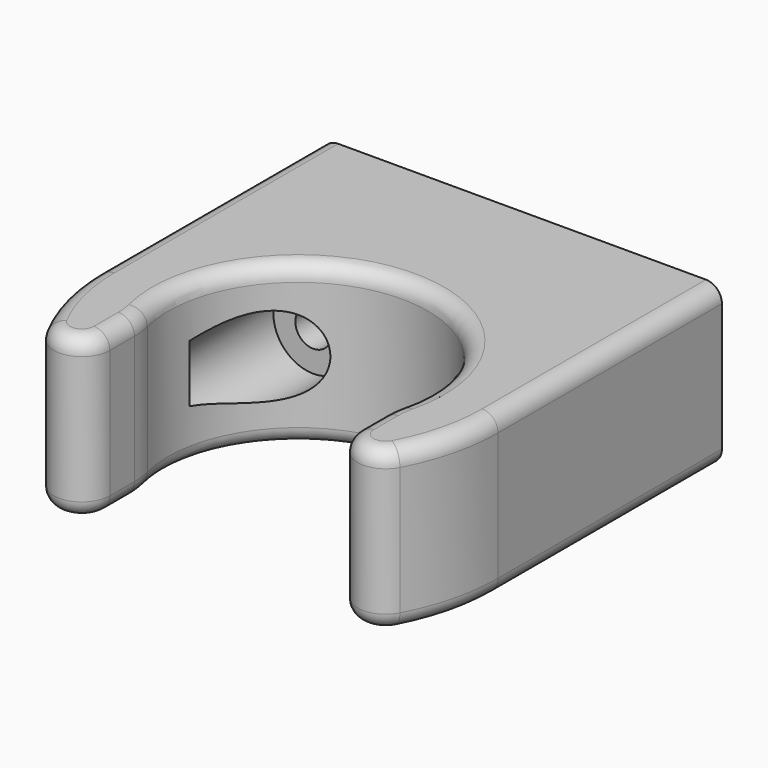
from build123d import *

# Parameters (mm, degrees)
F1_DEPTH = 20
F3_D     = 4.5
F3_DEPTH = 25
F3_TIP   = 1.3519363928
F6_R     = 2
F5_R     = 5
F7_DEPTH = 15
F8_DEPTH = 10


with BuildPart() as f1:
    # F0 (on Top) → F1 (new body)
    with BuildSketch(Plane.XY):
        with BuildLine():
            ThreePointArc((-15.7857142857, -3.8566467935), (0, 16.25), (15.7857142857, -3.8566467935))
            ThreePointArc((15.7857142857, -3.8566467935), (15.5716855121, -5.0347392879), (15.5, -6.2299678972))
            Line((15.5, -6.2299678972), (15.5, -10.0623058987))
            ThreePointArc((15.5, -10.0623058987), (18.1560750612, -13.4590382547), (22.0930232558, -11.7003556962))
            ThreePointArc((22.0930232558, -11.7003556962), (24.2623739708, -6.0280352771), (25, 0))
            Line((25, 0), (25, 25))
            Line((25, 25), (0, 25))
            Line((0, 25), (-25, 25))
            Line((-25, 25), (-25, 0))
            ThreePointArc((-25, 0), (-24.2623739708, -6.0280352771), (-22.0930232558, -11.7003556962))
            ThreePointArc((-22.0930232558, -11.7003556962), (-18.1560750612, -13.4590382547), (-15.5, -10.0623058987))
            Line((-15.5, -10.0623058987), (-15.5, -6.2299678972))
            ThreePointArc((-15.5, -6.2299678972), (-15.5716855121, -5.0347392879), (-15.7857142857, -3.8566467935))
        make_face()
    extrude(amount=F1_DEPTH)

    # F3
    with Locations(Plane(origin=(0, 25, 0), x_dir=(-1, 0, 0), z_dir=(0, 1, 0))):
        with Locations((-12.5, 10), (12.5, 10)):
            Hole(F3_D / 2, depth=F3_DEPTH)
            with Locations((0, 0, -(F3_DEPTH + F3_TIP / 2))):  # 118° drill point
                Cone(0, F3_D / 2, F3_TIP, mode=Mode.SUBTRACT)

    # F6
    f6_edges = [f1.edges().sort_by_distance(p)[0] for p in [
        (-25, 12.5, 0),
        (-24.262374, -6.028035, 0),
        (0, 16.25, 0),
        (18.156075, -13.459038, 0),
        (25, 12.5, 20),
        (0, 16.25, 20),
        (-18.156075, -13.459038, 20),
    ]]
    fillet(f6_edges, radius=F6_R)

    # F5 (on offset) → F7 (cut)
    with BuildSketch(Plane.XZ.offset(-18)):
        with Locations((-12.5, 10)):
            Circle(F5_R)
        with Locations((12.5, 10)):
            Circle(F5_R)
    extrude(amount=F7_DEPTH, mode=Mode.SUBTRACT)

    # F8 (add): a face of the model
    f8_faces = [f1.faces().sort_by_distance(p)[0] for p in [
        (0, 25, 10),
    ]]
    extrude(f8_faces, amount=F8_DEPTH)


solid = f1.part
